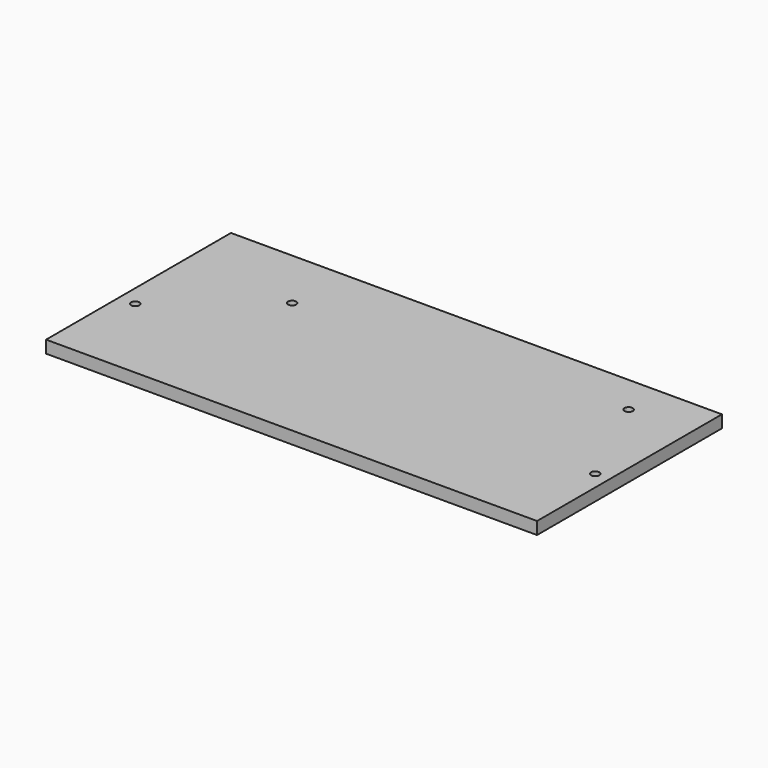
from build123d import *

# Parameters (mm, degrees)
F0_W     = 119
F0_H     = 56
F0_R     = 1
F0_R_2   = 0.99998
F1_DEPTH = 3


with BuildPart() as f1:
    # F0 (on Top) → F1 (new body)
    with BuildSketch(Plane.XY):
        Rectangle(F0_W, F0_H)
        with Locations((-55.5, -6)):
            Circle(F0_R, mode=Mode.SUBTRACT)
        with Locations((56, -6)):
            Circle(F0_R, mode=Mode.SUBTRACT)
        with Locations((-32.499917, 12.800001)):
            Circle(F0_R, mode=Mode.SUBTRACT)
        with Locations((44.500019, 18.500002)):
            Circle(F0_R_2, mode=Mode.SUBTRACT)
    extrude(amount=F1_DEPTH)


solid = f1.part
